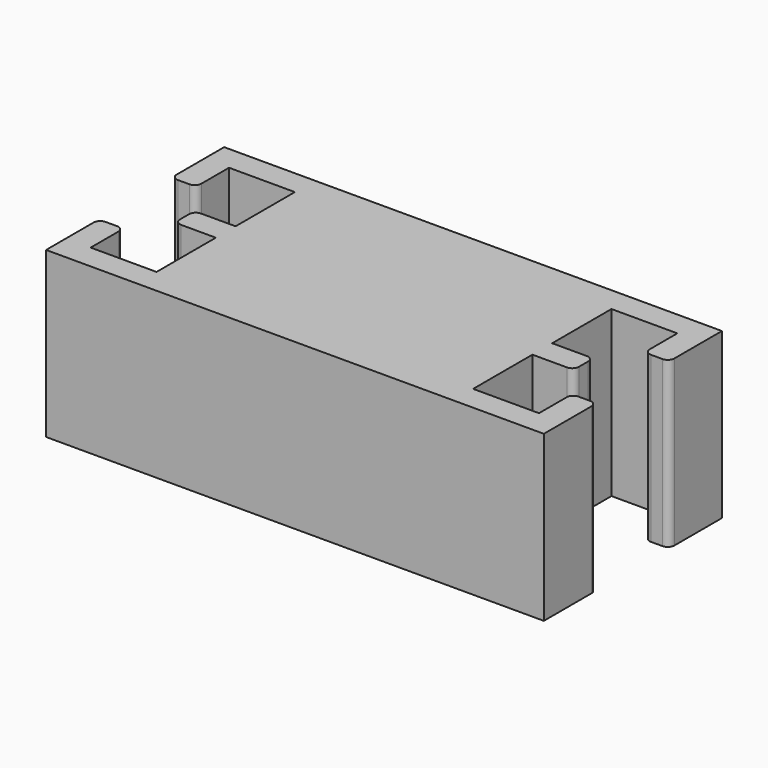
from build123d import *

# Parameters (mm, degrees)
F1_DEPTH = 10
F2_R     = 0.4
F3_ANGLE = 90


with BuildPart() as f1:
    # F0 (on Front) → F1 (new body)
    with BuildSketch(Plane.XZ):
        Polygon((15.15625, 2.75), (15.15625, 6.758929), (0, 6.758929), (-15.067572, 6.758929), (-15.067572, 2.75), (-13.567572, 2.75), (-13.567572, 5.25), (-9.567572, 5.25), (-9.567572, 0.75), (-12.067572, 0.75), (-12.067572, 0), (-12.067572, -0.75), (-9.567572, -0.75), (-9.567572, -5.25), (-13.567572, -5.25), (-13.567572, -2.75), (-15.067572, -2.75), (-15.067572, -6.758929), (0, -6.758929), (15.15625, -6.758929), (15.15625, -2.75), (13.65625, -2.75), (13.65625, -5.25), (9.65625, -5.25), (9.65625, -0.75), (12.15625, -0.75), (12.15625, 0), (12.15625, 0.75), (9.65625, 0.75), (9.65625, 5.25), (13.65625, 5.25), (13.65625, 2.75), align=None)
    extrude(amount=F1_DEPTH)

    # F2
    f2_edges = [f1.edges().sort_by_distance(p)[0] for p in [
        (15.15625, -5, 2.75),
        (13.65625, -5, 2.75),
        (12.15625, -5, 0.75),
        (12.15625, -5, -0.75),
        (15.15625, -5, -2.75),
        (13.65625, -5, -2.75),
        (-13.567572, -5, -2.75),
        (-15.067572, -5, -2.75),
        (-12.067572, -5, 0.75),
        (-12.067572, -5, -0.75),
        (-13.567572, -5, 2.75),
        (-15.067572, -5, 2.75),
    ]]
    fillet(f2_edges, radius=F2_R)


with BuildPart() as f1_1:
    # F3: moved
    add(f1.part.rotate(Axis((0.044339, -10, -6.758929), (1, 0, 0)), F3_ANGLE))


solid = f1_1.part
